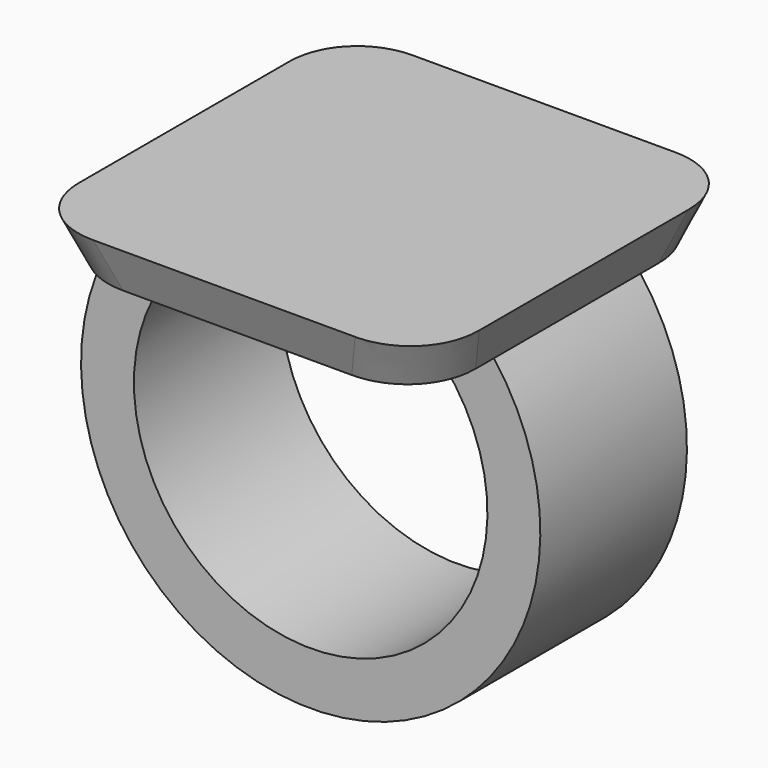
from build123d import *

# Parameters (mm, degrees)
F0_W     = 25.4
F0_H     = 25.4
F1_DEPTH = 3.175
F1_TAPER = -20
F3_W     = 5.08
F3_H     = 12.7
F6_DEPTH = 6.35
F7_R     = 5.08


with BuildPart() as f1:
    # F0 (on Top) → F1 (new body)
    with BuildSketch(Plane.XY):
        Rectangle(F0_W, F0_H)
    extrude(amount=F1_DEPTH, taper=F1_TAPER)

    # F4: sweep along a path in F2
    with BuildLine(Plane.XZ) as f4_path:
        ThreePointArc((-10.16, 0), (0, -23.5582897328), (10.16, 0))
    # F3 (on face) → F4 (sweep)
    with BuildSketch(Plane(origin=(0, 0, 0), x_dir=(1, 0, 0), z_dir=(0, 0, -1))):
        with Locations((-10.16, 0)):
            Rectangle(F3_W, F3_H)
    sweep(path=f4_path.line)

    # F5 (on Front) → F6 (join, symmetric)
    with BuildSketch(Plane.XZ):
        with BuildLine():
            Line((10.16, 0), (7.62, 0))
            ThreePointArc((7.62, 0), (8.9072265211, -1.1822790439), (10.0130578512, -2.535746045))
            Line((10.0130578512, -2.535746045), (10.16, 0))
        make_face()
    extrude(amount=F6_DEPTH, both=True)

    # F7
    f7_edges = [f1.edges().sort_by_distance(p)[0] for p in [
        (-13.277803, -13.277803, 1.5875),
        (13.277803, -13.277803, 1.5875),
        (13.277803, 13.277803, 1.5875),
        (-13.277803, 13.277803, 1.5875),
    ]]
    fillet(f7_edges, radius=F7_R)


solid = f1.part
